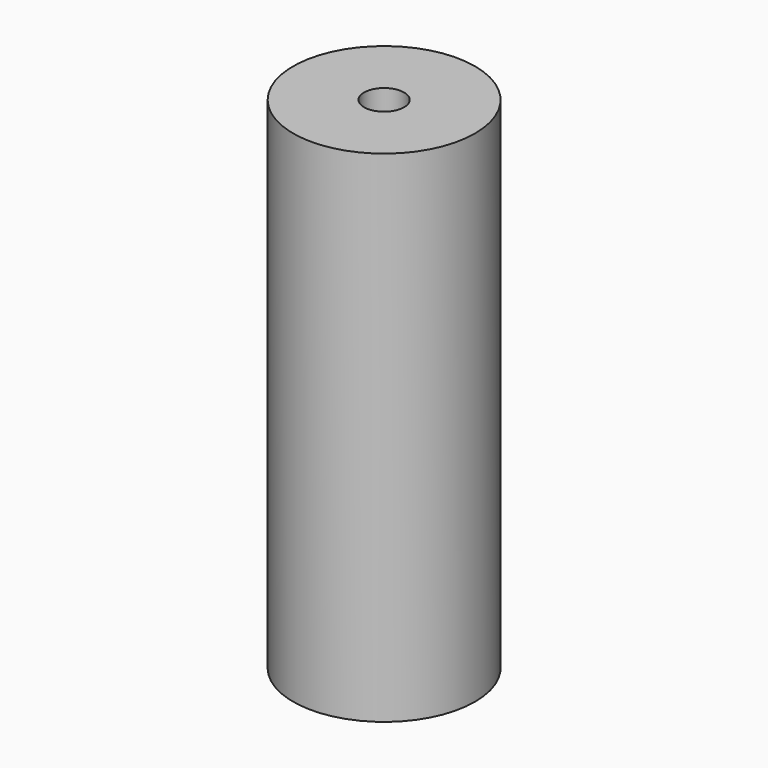
from build123d import *

# Parameters (mm, degrees)
F0_R     = 12.7
F0_R_2   = 9.144
F0_R_3   = 2.794
F1_DEPTH = 69.85
F2_DEPTH = 69.851
F3_DEPTH = 19.05


with BuildPart() as f1:
    # F0 (on Top) → F1 (new body)
    with BuildSketch(Plane.XY):
        Circle(F0_R)
        Circle(F0_R_2, mode=Mode.SUBTRACT)
        Circle(F0_R_2)
        Circle(F0_R_3, mode=Mode.SUBTRACT)
        Circle(F0_R_3)
    extrude(amount=F1_DEPTH)

    # F0 (on Top) → F2 (cut, through all)
    with BuildSketch(Plane.XY):
        Circle(F0_R_3)
    extrude(amount=F2_DEPTH, mode=Mode.SUBTRACT)

    # F0 (on Top) → F3 (cut)
    with BuildSketch(Plane.XY):
        Circle(F0_R_2)
        Circle(F0_R_3, mode=Mode.SUBTRACT)
    extrude(amount=F3_DEPTH, mode=Mode.SUBTRACT)


solid = f1.part
